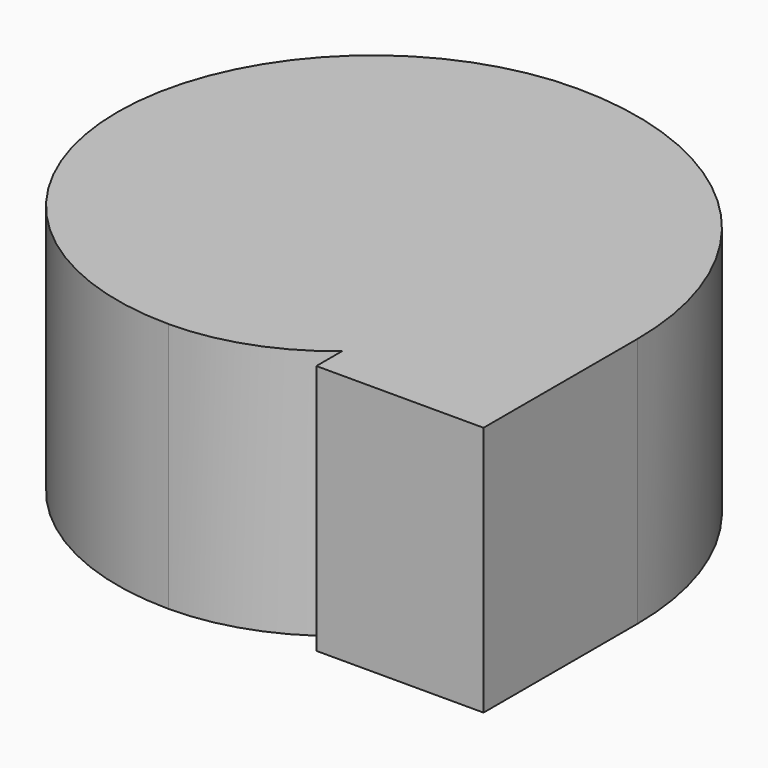
from build123d import *

# Parameters (mm, degrees)
F1_DEPTH = 300


with BuildPart() as f1:
    # F0 (on Top) → F1 (new body)
    with BuildSketch(Plane.XY):
        with BuildLine():
            ThreePointArc((0, 360.696902), (-305.348451, 55.348451), (0, -250))
            ThreePointArc((0, -250), (85.505036, -234.923155), (160.696902, -191.511111))
            Line((160.696902, -191.511111), (160.696902, -230))
            Line((160.696902, -230), (360.696902, -230))
            Line((360.696902, -230), (360.696902, 0))
            ThreePointArc((360.696902, 0), (255.051226, 255.051226), (0, 360.696902))
        make_face()
    extrude(amount=-F1_DEPTH)


solid = f1.part
